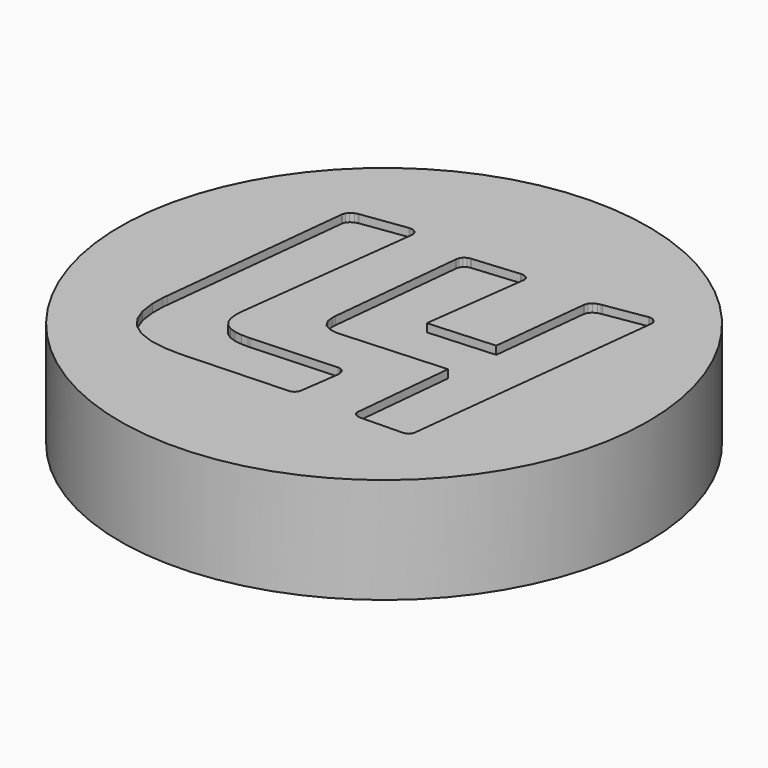
from build123d import *

# Parameters (mm, degrees)
F0_R     = 32.5
F1_DEPTH = 2
F2_R     = 32.5
F2_R_2   = 30.5
F3_DEPTH = 11
F5_START = 1
F5_DEPTH = 2


with BuildPart() as f1:
    # F0 (on Top) → F1 (new body)
    with BuildSketch(Plane.XY):
        Circle(F0_R)
    extrude(amount=F1_DEPTH)

    # F2 (on Top) → F3 (join)
    with BuildSketch(Plane.XY):
        Circle(F2_R)
        Circle(F2_R_2, mode=Mode.SUBTRACT)
    extrude(amount=-F3_DEPTH)

    # F4 (on Top) → F5 (cut)
    with BuildSketch(Plane.XY.offset(F5_START)):
        Polygon((2.4237075291, -15.8480604819), (2.4399934727, -15.7433961512), (3.0970268987, -11.0418947956), (3.1142315365, -10.9209111143), (3.0897608623, -10.5466517793), (2.9266508736, -10.1506277423), (2.6207256875, -9.8973353851), (2.2931694276, -9.820766395), (2.1871855179, -9.8289177185), (-8.2267149419, -10.3341410951), (-8.495391252, -10.347278423), (-9.3028399824, -10.3323204102), (-10.2167737285, -10.2068184235), (-10.9685161801, -9.9476297195), (-11.5570651254, -9.5443730532), (-11.9825708962, -8.9865836618), (-12.2435635816, -8.2651915276), (-12.340068237, -7.3698822195), (-12.305633906, -6.5574224295), (-12.2711995751, -6.290082402), (-9.4904206453, 16.2064848687), (-9.4823194323, 16.3074577188), (-9.5656700563, 16.6188115528), (-9.8257440475, 16.9269081981), (-10.2090901038, 17.1022952827), (-10.5461673769, 17.1344495816), (-10.6535710868, 17.1163262495), (-16.1638908625, 16.3583199734), (-16.2830538588, 16.3401131236), (-16.6314978853, 16.2273642835), (-17.0234379088, 15.9915939313), (-17.3011925884, 15.6618662122), (-17.4190109504, 15.3519321784), (-17.4276216211, 15.2458647511), (-19.9550747867, -8.4637130038), (-20.0121674586, -8.991110319), (-20.0411731417, -10.5892457856), (-19.799205779, -12.4161945835), (-19.2178644077, -13.944542694), (-18.2871686674, -15.1747327606), (-16.9962529107, -16.105887848), (-15.3346857818, -16.7384255445), (-13.2911506379, -17.0728219007), (-11.463274794, -17.1344495816), (-10.8556838224, -17.1086175695), (1.3783169873, -16.6029515493), (1.4797909433, -16.6029515493), (1.7857161295, -16.5608085384), (2.0987403167, -16.4194381965), (2.3167214075, -16.1548208447), align=None)
        Polygon((-3.0113711872, 14.8960092761), (-3.0200570238, 14.7909440607), (-4.687821163, -1.6389839538), (-4.7205600855, -1.93705848), (-4.6257675421, -2.8528296145), (-4.1513872371, -3.6924326438), (-3.2878146396, -4.1628041012), (-2.3643598804, -4.2841552602), (-2.0593533885, -4.2678693166), (10.6803468484, -3.5093619345), (9.4668352583, -15.8444441673), (9.4587340453, -15.9377751516), (9.5180315834, -16.2264121822), (9.7255729669, -16.476079873), (10.0568040038, -16.6120132154), (10.3725842737, -16.6532458838), (10.4782341128, -16.6532458838), (15.4827792953, -16.5521978678), (15.5716420848, -16.5521978678), (15.8388985947, -16.5100632086), (16.1335488968, -16.3686845149), (16.3428441511, -16.1040671631), (16.4352982, -15.7964048096), (16.4433994129, -15.6926508214), (20.0325708227, 16.1054285009), (20.0411731417, 16.1955440553), (19.9804558033, 16.4750776611), (19.7670681837, 16.7878512953), (19.4208039681, 16.9872079482), (19.0796343298, 17.0319734136), (18.9708108197, 17.0152698817), (13.9154869003, 16.2064848687), (13.7822762336, 16.1888626426), (13.3884904699, 16.0890590397), (12.9612976424, 15.8715790548), (12.6567922565, 15.5313281107), (12.5163155535, 15.1688614692), (12.4999460922, 15.0438355331), (11.2363239065, 3.2143942653), (3.0970268987, 2.7086948381), (4.7653756615, 15.4986727059), (4.7811604991, 15.5943004258), (4.7345576452, 15.896049729), (4.5189150488, 16.1752492641), (4.1609583609, 16.3305921105), (3.8165315338, 16.3668387746), (3.703699176, 16.3583199734), (-1.9076853192, 15.8525370285), (-2.0253617012, 15.8444358155), (-2.3728786817, 15.7505619664), (-2.7105405783, 15.5304094164), (-2.9243457862, 15.2060268276), align=None)
    extrude(amount=F5_DEPTH, mode=Mode.SUBTRACT)


solid = f1.part
